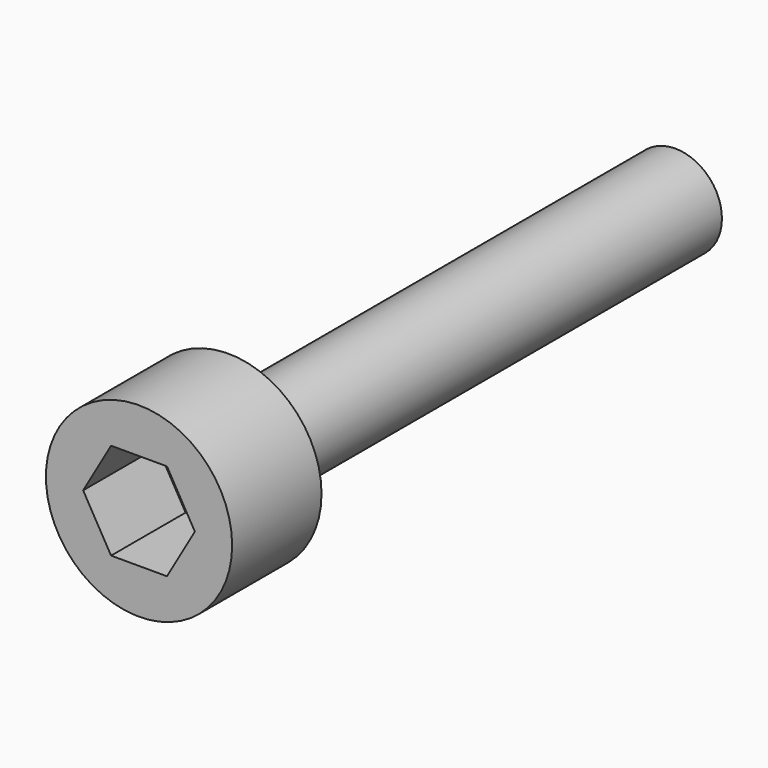
from build123d import *

# Parameters (mm, degrees)
F0_R     = 2.5
F1_DEPTH = 30
F3_R     = 5
F4_DEPTH = 6
F7_DEPTH = 5


with BuildPart() as f1:
    # F0 (on Front) → F1 (new body)
    with BuildSketch(Plane.XZ):
        Circle(F0_R)
    extrude(amount=-F1_DEPTH)

    # F3 (on offset) → F4 (join)
    with BuildSketch(Plane.XZ):
        Circle(F3_R)
    extrude(amount=F4_DEPTH)

    # F6 (on offset) → F7 (cut)
    with BuildSketch(Plane.XZ.offset(6)):
        Polygon((1.5, 2.598076), (-1.5, 2.598076), (-3, 0), (-1.5, -2.598076), (1.5, -2.598076), (3, 0), align=None)
    extrude(amount=-F7_DEPTH, mode=Mode.SUBTRACT)


solid = f1.part
